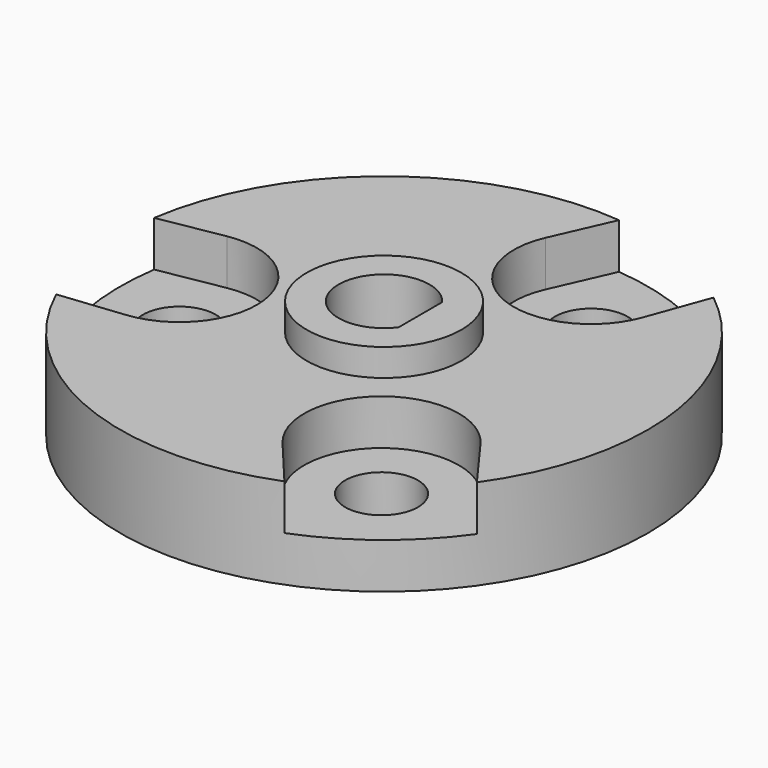
from build123d import *

# Parameters (mm, degrees)
SKETCH034_R          = 14.5
PAD014_DEPTH         = 5
SKETCH035_R          = 4.25
PAD015_DEPTH         = 1.5
SKETCH036_R          = 2
POCKET019_DEPTH      = 88.049178788
POCKET020_DEPTH      = 2.5
POLARPATTERN_COUNT   = 3
POCKET021_DEPTH      = 5.001
POCKET021_DEPTH_BACK = 1.501


with BuildPart() as part:
    # Sketch034 → Pad014 (new body)
    with BuildSketch(Plane.XY.offset(40.1)):
        Circle(SKETCH034_R)
    extrude(amount=PAD014_DEPTH)

    # Sketch035 → Pad015 (join)
    with BuildSketch(Plane.XY.offset(45.1)):
        Circle(SKETCH035_R)
    extrude(amount=PAD015_DEPTH)

    # Sketch036 → Pocket019 (cut, through all)
    with BuildSketch(Plane.XY.offset(45.1)):
        with Locations((-10.0992623493, -1.43)):
            Circle(SKETCH036_R)
    pocket019 = extrude(amount=-POCKET019_DEPTH, mode=Mode.SUBTRACT)

    # Sketch037 → Pocket020 (cut)
    with BuildSketch(Plane.XY.offset(45.1)):
        with BuildLine():
            ThreePointArc((-9.644040596, -5.6555500417), (-5.8912363704, -0.8341666667), (-10.83504492, 2.7558241732))
            Line((-10.83504492, 2.7558241732), (-14.3412882274, 2.1394980669))
            ThreePointArc((-14.3412882274, 2.1394980669), (-14.3567945162, -2.0328431373), (-13.1835601604, -6.0368652045))
            Line((-9.644040596, -5.6555500417), (-13.1835601604, -6.0368652045))
        make_face()
    pocket020 = extrude(amount=-POCKET020_DEPTH, mode=Mode.SUBTRACT)

    # PolarPattern: Pocket019, Pocket020 ×3 about axis
    polarpattern_axis = Axis((0, 0, 45.1), (0, 0, 1))
    for i in range(1, POLARPATTERN_COUNT):
        add(pocket019.rotate(polarpattern_axis, i * 360 / POLARPATTERN_COUNT), mode=Mode.SUBTRACT)
        add(pocket020.rotate(polarpattern_axis, i * 360 / POLARPATTERN_COUNT), mode=Mode.SUBTRACT)

    # Sketch038 → Pocket021 (cut, two sides)
    with BuildSketch(Plane.XY.offset(45.1)) as pocket021_sk:
        with BuildLine():
            Line((2, 1.5), (2, -1.5))
            ThreePointArc((2, 1.5), (-2.5, 0), (2, -1.5))
        make_face()
    extrude(amount=-POCKET021_DEPTH, mode=Mode.SUBTRACT)
    extrude(pocket021_sk.sketch, amount=POCKET021_DEPTH_BACK, mode=Mode.SUBTRACT)


solid = part.part
